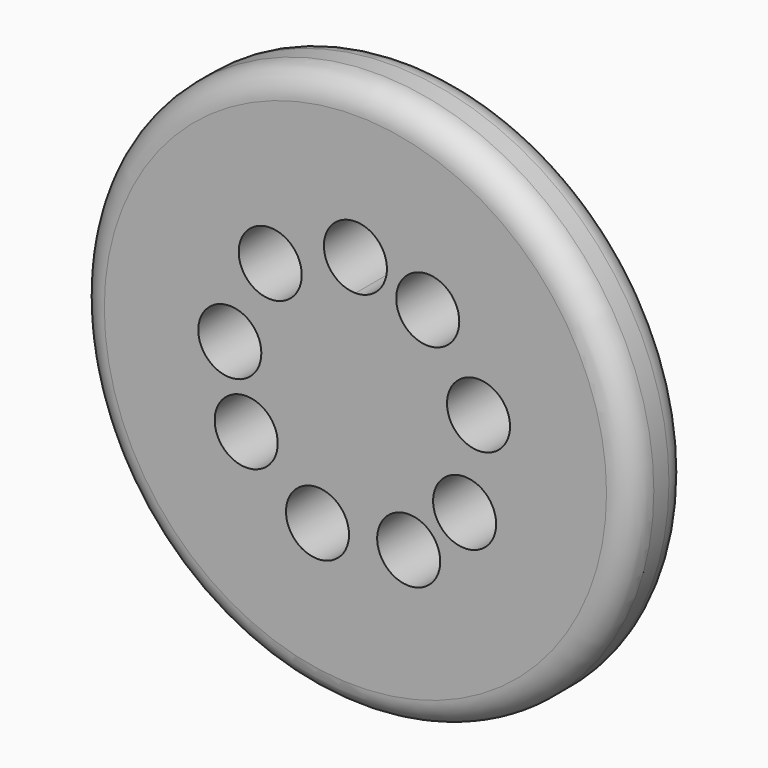
from build123d import *

# Parameters (mm, degrees)
F0_R     = 16.764
F1_DEPTH = 4.318
F2_R     = 1.5875
F3_R     = 1.905
F4_DEPTH = 25.4
F5_R     = 1.5875
F6_DEPTH = 19.05
F5_R_2   = 3.81
F7_DEPTH = 11.43


with BuildPart() as f1:
    # F0 (on Front) → F1 (new body)
    with BuildSketch(Plane.XZ):
        Circle(F0_R)
    extrude(amount=F1_DEPTH)

    # F2
    f2_edges = [f1.edges().sort_by_distance(p)[0] for p in [
        (-16.764, 0, 0),
        (-16.764, -4.318, 0),
    ]]
    fillet(f2_edges, radius=F2_R)

    # F3 (on face) → F4 (cut)
    with BuildSketch(Plane.XZ.offset(4.318)):
        with BuildLine():
            ThreePointArc((0, 5.715), (1.347038, 6.272962), (1.905, 7.62))
            ThreePointArc((1.905, 7.62), (-1.347038, 8.967038), (0, 5.715))
        make_face()
        with Locations((4.370652, 6.241939)):
            Circle(F3_R)
        with Locations((7.439376, 1.64927)):
            Circle(F3_R)
        with Locations((6.599114, -3.81)):
            Circle(F3_R)
        with Locations((3.220351, -6.906065)):
            Circle(F3_R)
        with Locations((-2.291378, -7.267323)):
            Circle(F3_R)
        with Locations((-6.599114, -3.81)):
            Circle(F3_R)
        with Locations((-7.591004, 0.664127)):
            Circle(F3_R)
        with Locations((-5.147997, 5.618053)):
            Circle(F3_R)
    extrude(amount=-F4_DEPTH, mode=Mode.SUBTRACT)

    # F5 (on face) → F6 (cut)
    with BuildSketch(Plane(origin=(0, 0, 0), x_dir=(-1, 0, 0), z_dir=(0, 1, 0))):
        Circle(F5_R)
    extrude(amount=F6_DEPTH, mode=Mode.SUBTRACT)

    # F5 (on face) → F7 (join)
    with BuildSketch(Plane(origin=(0, 0, 0), x_dir=(-1, 0, 0), z_dir=(0, 1, 0))):
        Circle(F5_R_2)
        Circle(F5_R, mode=Mode.SUBTRACT)
    extrude(amount=F7_DEPTH)


solid = f1.part
